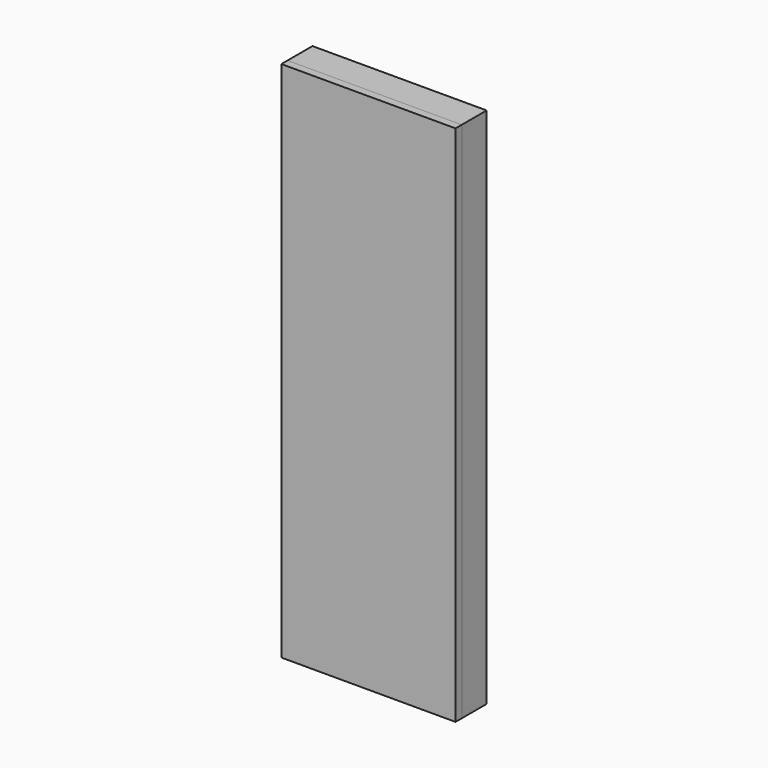
from build123d import *

# Parameters (mm, degrees)
F0_W     = 560
F0_H     = 1680
F1_DEPTH = 100
F2_W     = 560
F2_H     = 1680
F3_DEPTH = 25


with BuildPart() as f1:
    # F0 (on Front) → F1 (new body)
    with BuildSketch(Plane.XZ):
        Rectangle(F0_W, F0_H)
    extrude(amount=F1_DEPTH)


with BuildPart() as f3:
    # F2 (on face) → F3 (new body)
    with BuildSketch(Plane.XZ.offset(100)):
        Rectangle(F2_W, F2_H)
    extrude(amount=F3_DEPTH)


solid = Compound([f1.part, f3.part])
